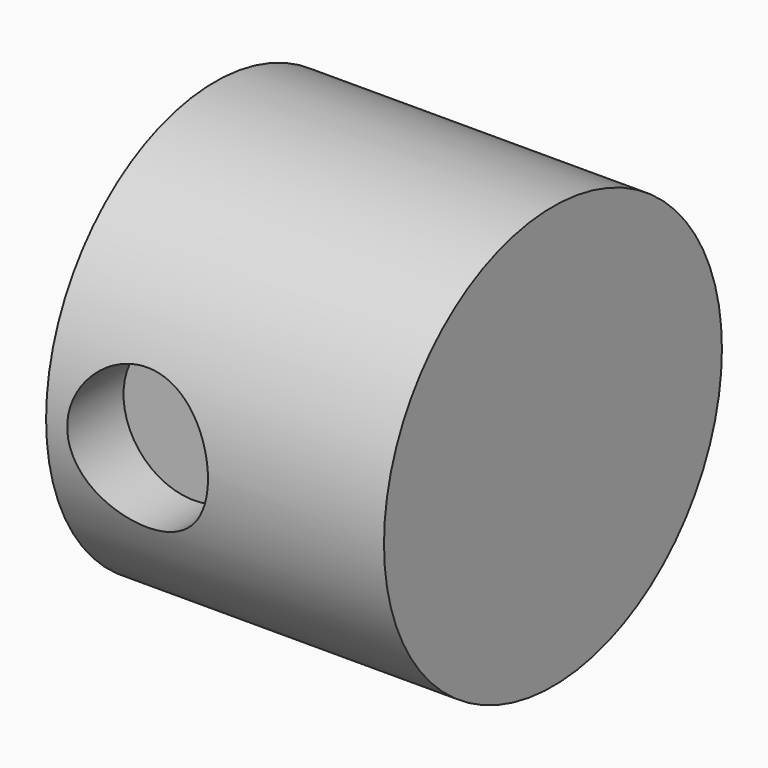
from build123d import *

# Parameters (mm, degrees)
F0_R     = 30
F1_DEPTH = 48
F3_R     = 10
F4_DEPTH = 10
F6_R     = 10
F7_DEPTH = 10


with BuildPart() as f1:
    # F0 (on Right) → F1 (new body)
    with BuildSketch(Plane.YZ):
        Circle(F0_R)
    extrude(amount=F1_DEPTH)

    # F3 (on offset) → F4 (cut)
    with BuildSketch(Plane.XZ.offset(30)):
        with Locations((13, 0)):
            Circle(F3_R)
    extrude(amount=-F4_DEPTH, mode=Mode.SUBTRACT)

    # F6 (on offset) → F7 (cut)
    with BuildSketch(Plane.XZ.offset(-30)):
        with Locations((13, 0)):
            Circle(F6_R)
    extrude(amount=F7_DEPTH, mode=Mode.SUBTRACT)


solid = f1.part
